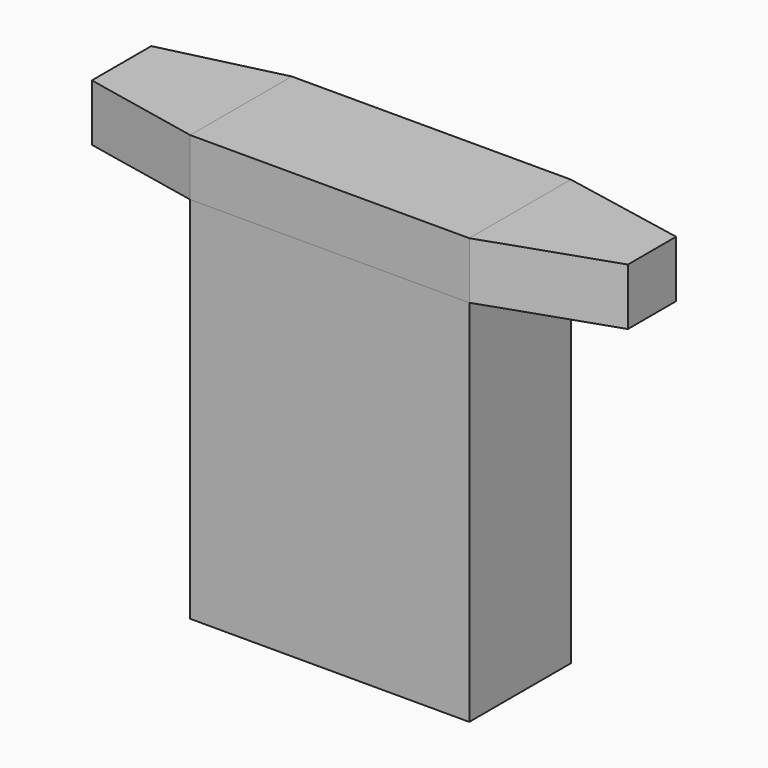
from build123d import *

# Parameters (mm, degrees)
F0_W     = 24.964119
F0_H     = 11.358674
F1_DEPTH = 33.02
F3_DEPTH = 5.08
F4_W     = 24.964119
F4_H     = 11.358674
F5_DEPTH = 5.08
F7_DEPTH = 5.08


with BuildPart() as f1:
    # F0 (on Top) → F1 (new body)
    with BuildSketch(Plane.XY):
        with Locations((-0.24964, 5.679337)):
            Rectangle(F0_W, F0_H)
    extrude(amount=F1_DEPTH)


with BuildPart() as f3:
    # F2 (on face) → F3 (new body)
    with BuildSketch(Plane.XY.offset(33.02)):
        Polygon((-12.7317, 0), (-12.7317, 11.358674), (-23.270963, 8.816268), (-23.270963, 2.17388), align=None)
    extrude(amount=F3_DEPTH)


with BuildPart() as f5:
    # F4 (on face) → F5 (new body)
    with BuildSketch(Plane.XY.offset(33.02)):
        with Locations((-0.24964, 5.679337)):
            Rectangle(F4_W, F4_H)
    extrude(amount=F5_DEPTH)


with BuildPart() as f7:
    # F6 (on face) → F7 (new body)
    with BuildSketch(Plane.XY.offset(38.1)):
        Polygon((23.378788, 9.200462), (12.232419, 11.358674), (12.232419, 0), (23.378788, 3.803569), align=None)
    extrude(amount=-F7_DEPTH)


solid = Compound([f1.part, f3.part, f5.part, f7.part])
